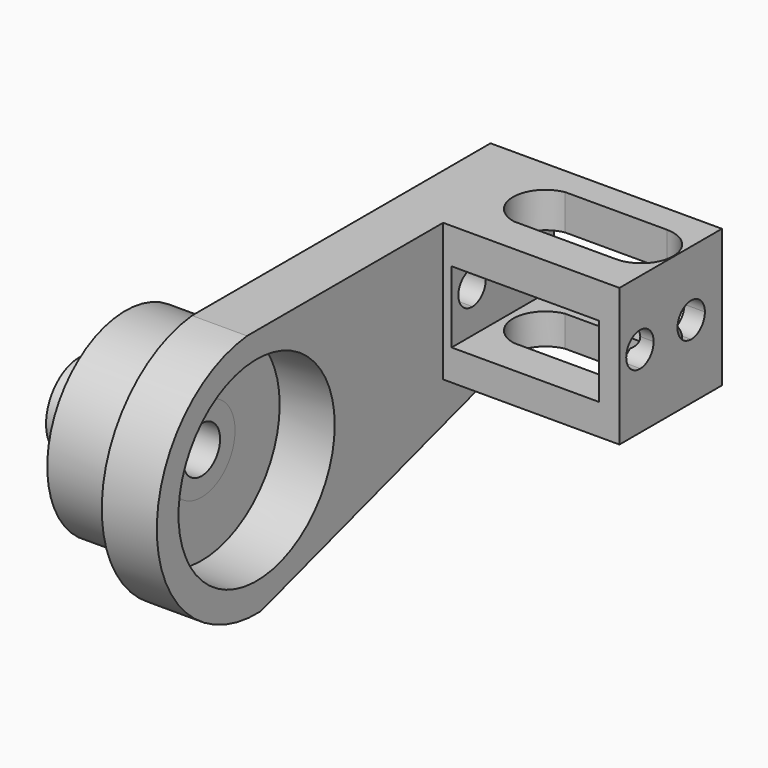
from build123d import *

# Parameters (mm, degrees)
F0_R     = 6.533334
F0_R_2   = 3.622154
F1_DEPTH = 19.05759
F0_R_3   = 15.247295
F2_DEPTH = 11.89196
F3_DEPTH = 8.59584
F4_DEPTH = 36.12852
F6_DEPTH = 22.58512
F7_W     = 23.013976
F7_H     = 11.163496
F8_DEPTH = 25


with BuildPart() as f1:
    # F0 (on Right) → F1 (new body)
    with BuildSketch(Plane.YZ):
        with Locations((-20.800001, 2.333333)):
            Circle(F0_R)
        with Locations((-20.800001, 2.333333)):
            Circle(F0_R_2, mode=Mode.SUBTRACT)
    extrude(amount=-F1_DEPTH)


with BuildPart() as f2:
    # F0 (on Right) → F2 (new body)
    with BuildSketch(Plane.YZ):
        with Locations((-20.800001, 2.333333)):
            Circle(F0_R_3)
        with Locations((-20.800001, 2.333333)):
            Circle(F0_R, mode=Mode.SUBTRACT)
    extrude(amount=-F2_DEPTH)


with BuildPart() as f3:
    # F0 (on Right) → F3 (new body)
    with BuildSketch(Plane.YZ):
        with BuildLine():
            Line((15.600001, 21.533335), (-22.666668, 21.533335))
            ThreePointArc((-22.666668, 21.533335), (-40.229854, 0.772385), (-20.000002, -17.400001))
            Line((-20.000002, -17.400001), (35.600001, 0))
            Line((35.600001, 0), (15.600001, 0))
            Line((15.600001, 0), (15.600001, 13.4))
            Line((15.600001, 13.4), (15.600001, 21.533335))
        make_face()
        with Locations((-20.800001, 2.333333)):
            Circle(F0_R_3, mode=Mode.SUBTRACT)
    extrude(amount=F3_DEPTH)

    # F0 (on Right) → F4 (join)
    with BuildSketch(Plane.YZ):
        Polygon((35.600001, 21.533335), (15.600001, 21.533335), (15.600001, 13.4), (15.600001, 0), (35.600001, 0), align=None)
        with BuildLine():
            ThreePointArc((19.692099, 14.118616), (21.520351, 13.303437), (22.269885, 11.447306))
            ThreePointArc((22.269885, 11.447306), (21.520351, 9.591176), (19.692099, 8.775996))
            ThreePointArc((19.692099, 8.775996), (17.740748, 9.523834), (16.923872, 11.447306))
            ThreePointArc((16.923872, 11.447306), (17.740748, 13.370778), (19.692099, 14.118616))
        make_face(mode=Mode.SUBTRACT)
        with BuildLine():
            ThreePointArc((26.923872, 11.447306), (29.596879, 14.120312), (32.269885, 11.447306))
            ThreePointArc((32.269885, 11.447306), (31.486979, 9.557205), (29.596879, 8.7743))
            ThreePointArc((29.596879, 8.7743), (27.706778, 9.557205), (26.923872, 11.447306))
        make_face(mode=Mode.SUBTRACT)
    extrude(amount=F4_DEPTH)

    # F5 (on Top) → F6 (cut)
    with BuildSketch(Plane.XY):
        with BuildLine():
            ThreePointArc((31.041456, 21.262659), (36.017147, 26.238349), (31.041456, 31.21404))
            Line((31.041456, 31.21404), (15.147886, 31.21404))
            ThreePointArc((15.147886, 31.21404), (11.001104, 26.238349), (15.147886, 21.262659))
            Line((15.147886, 21.262659), (31.041456, 21.262659))
        make_face()
    extrude(amount=F6_DEPTH, mode=Mode.SUBTRACT)

    # F7 (on face) → F8 (cut)
    with BuildSketch(Plane.XZ.offset(-15.600001)):
        with Locations((21.427715, 10.402655)):
            Rectangle(F7_W, F7_H)
    extrude(amount=-F8_DEPTH, mode=Mode.SUBTRACT)


solid = Compound([f1.part, f2.part, f3.part])
